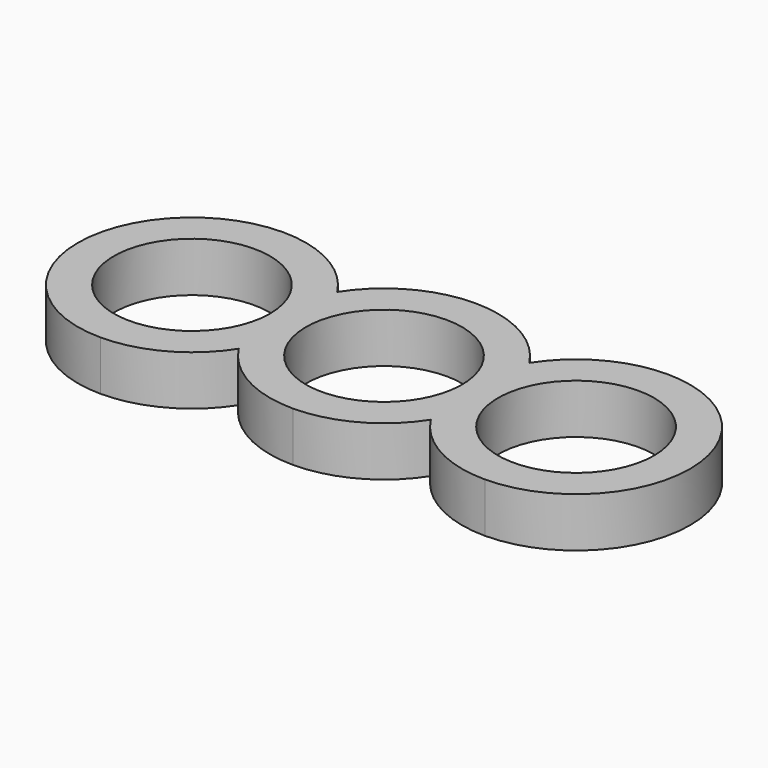
from build123d import *

# Parameters (mm, degrees)
F0_R     = 11
F1_DEPTH = 7


with BuildPart() as f1:
    # F0 (on Top) → F1 (new body)
    with BuildSketch(Plane.XY):
        with BuildLine():
            ThreePointArc((-27.08, 16.08), (-43.16, 0), (-27.08, -16.08))
            ThreePointArc((-27.08, -16.08), (-19.363404, -14.107464), (-13.54, -8.6738))
            ThreePointArc((-13.54, -8.6738), (-7.716596, -14.107464), (0, -16.08))
            ThreePointArc((0, -16.08), (7.716596, -14.107464), (13.54, -8.6738))
            ThreePointArc((13.54, -8.6738), (19.363404, -14.107464), (27.08, -16.08))
            ThreePointArc((27.08, -16.08), (43.16, 0), (27.08, 16.08))
            ThreePointArc((27.08, 16.08), (19.363404, 14.107464), (13.54, 8.6738))
            ThreePointArc((13.54, 8.6738), (7.716596, 14.107464), (0, 16.08))
            ThreePointArc((0, 16.08), (-7.716596, 14.107464), (-13.54, 8.6738))
            ThreePointArc((-13.54, 8.6738), (-19.363404, 14.107464), (-27.08, 16.08))
        make_face()
        with Locations((-27.08, 0)):
            Circle(F0_R, mode=Mode.SUBTRACT)
        with BuildLine():
            ThreePointArc((0, -11), (-11, 0), (0, 11))
            ThreePointArc((0, 11), (11, 0), (0, -11))
        make_face(mode=Mode.SUBTRACT)
        with Locations((27.08, 0)):
            Circle(F0_R, mode=Mode.SUBTRACT)
    extrude(amount=F1_DEPTH)


solid = f1.part
